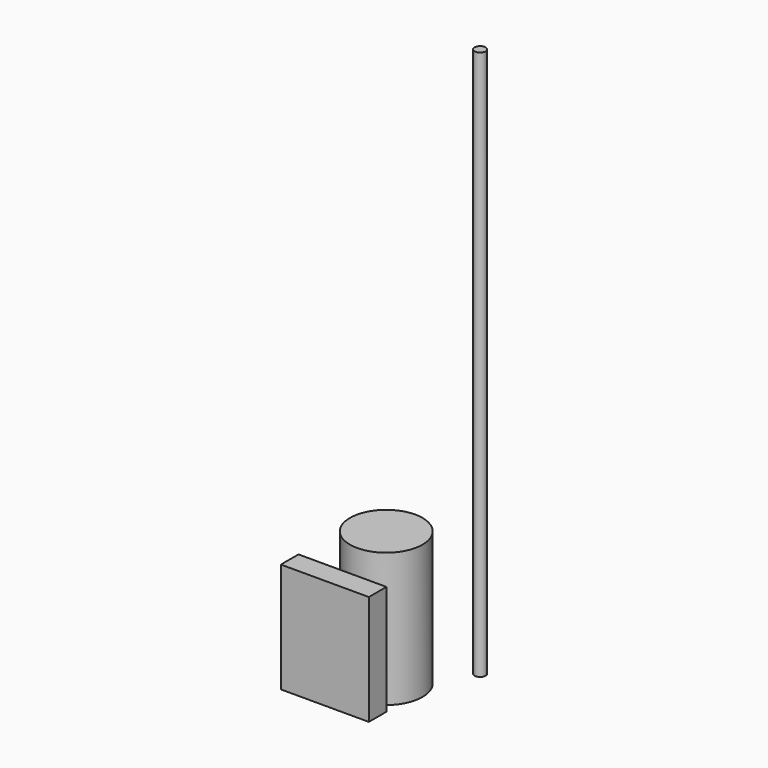
from build123d import *

# Parameters (mm, degrees)
F0_R     = 33
F1_DEPTH = 122
F2_R     = 5
F3_DEPTH = 500
F4_W     = 80
F4_H     = 20
F5_DEPTH = 100


with BuildPart() as f1:
    # F0 (on Top) → F1 (new body)
    with BuildSketch(Plane.XY):
        Circle(F0_R)
    extrude(amount=F1_DEPTH)


with BuildPart() as f3:
    # F2 (on Top) → F3 (new body)
    with BuildSketch(Plane.XY):
        with Locations((42.568386, 53.501464)):
            Circle(F2_R)
    extrude(amount=F3_DEPTH)


with BuildPart() as f5:
    # F4 (on Top) → F5 (new body)
    with BuildSketch(Plane.XY):
        with Locations((-12.851629, -43.725265)):
            Rectangle(F4_W, F4_H)
    extrude(amount=F5_DEPTH)


solid = Compound([f1.part, f3.part, f5.part])
